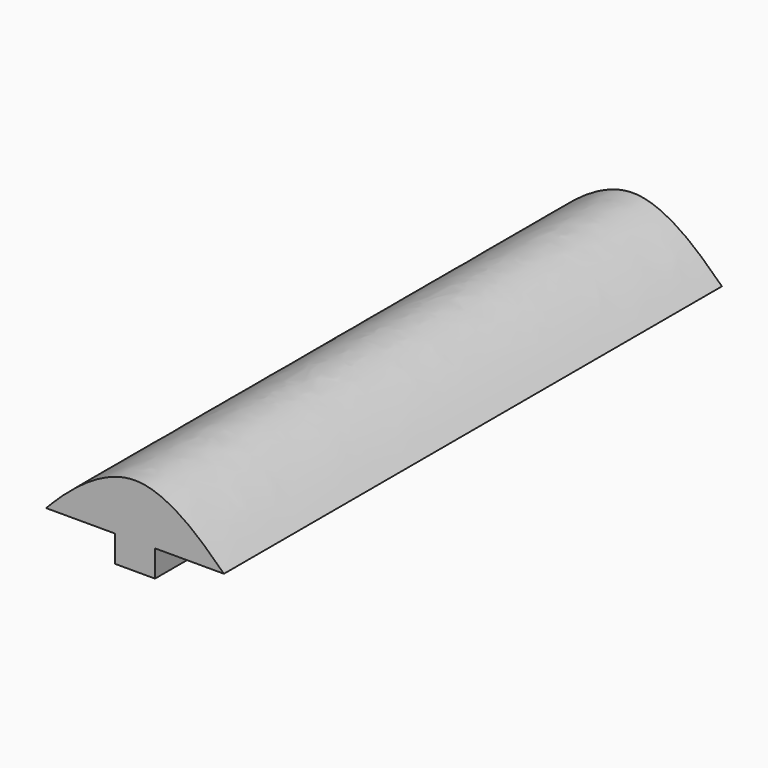
from build123d import *

# Parameters (mm, degrees)
F1_DEPTH = 70


with BuildPart() as f1:
    # F0 (on Front) → F1 (new body)
    with BuildSketch(Plane.XZ):
        with BuildLine():
            Line((1.476277, 0), (5.976277, 0))
            Line((5.976277, 0), (5.976277, 3))
            Line((5.976277, 3), (13.726277, 3))
            add(Edge.make_bspline(
                [(13.726277, 3), (12.234325, 4.371312), (3.800819, 13.619939), (-4.930854, 4.38881), (-6.273723, 3)],
                knots=[0, 0, 0, 0, 11.661904, 23.323808, 23.323808, 23.323808, 23.323808], degree=3))
            Line((-6.273723, 3), (1.476277, 3))
            Line((1.476277, 3), (1.476277, 0))
        make_face()
    extrude(amount=F1_DEPTH)


solid = f1.part
